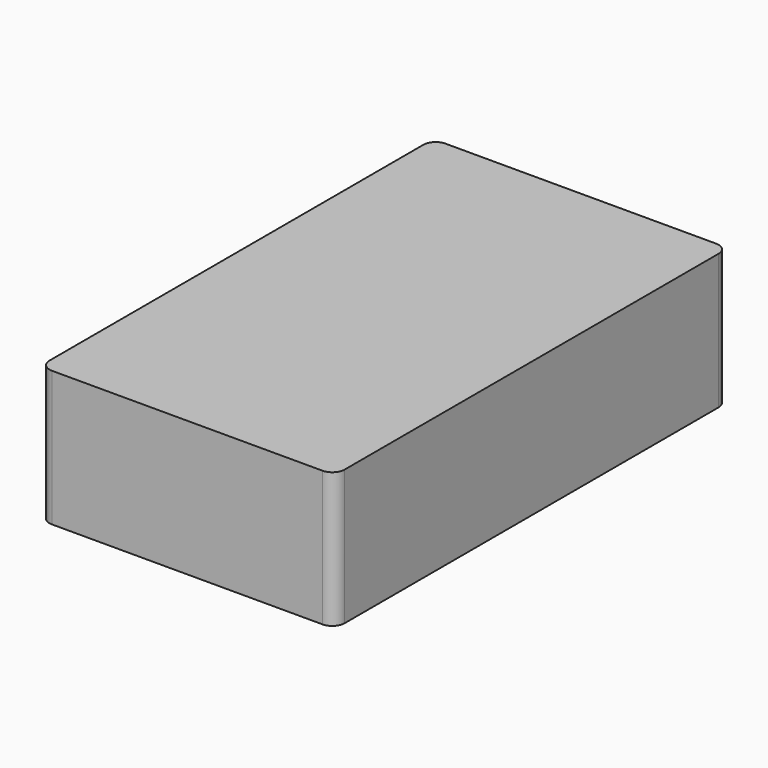
from build123d import *

# Parameters (mm, degrees)
F0_W     = 1200
F0_H     = 2000
F1_DEPTH = 550
F2_R     = 50
F3_R     = 50
F4_R     = 50


with BuildPart() as f1:
    # F0 (on Top) → F1 (new body)
    with BuildSketch(Plane.XY):
        with Locations((9.400919, 413.657364)):
            Rectangle(F0_W, F0_H)
    extrude(amount=F1_DEPTH)

    # F2
    f2_edges = [f1.edges().sort_by_distance(p)[0] for p in [
        (609.400919, -586.342636, 275),
    ]]
    fillet(f2_edges, radius=F2_R)

    # F3
    f3_edges = [f1.edges().sort_by_distance(p)[0] for p in [
        (-590.599081, -586.342636, 275),
    ]]
    fillet(f3_edges, radius=F3_R)

    # F4
    f4_edges = [f1.edges().sort_by_distance(p)[0] for p in [
        (609.400919, 1413.657364, 275),
        (-590.599081, 1413.657364, 275),
    ]]
    fillet(f4_edges, radius=F4_R)


solid = f1.part
